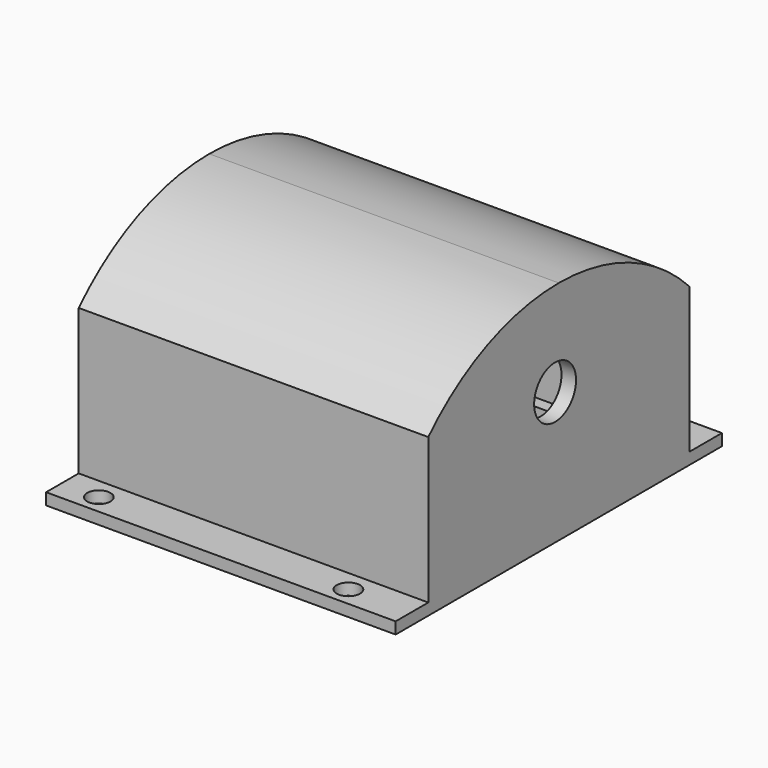
from build123d import *

# Parameters (mm, degrees)
EXTRUDE051_DEPTH                          = 56
SKETCH049_R                               = 2
EXTRUDE049_DEPTH                          = 15
SKETCH048_R                               = 4.5
EXTRUDE048_DEPTH                          = 100
SKETCH046_AS_DRAWN_W                      = 50
SKETCH046_AS_DRAWN_H                      = 54
EXTRUDE046_DEPTH                          = 24
EXTRUDE046_ONTO_SKETCH046_PITCH_ANGLE     = 0.457086
EXTRUDE046_ONTO_SKETCH046_PLACEMENT_ANGLE = 90
EXTRUDE045_DEPTH                          = 60


with BuildPart() as obj1:
    # Sketch050 (on Face1 of Cut026) → Extrude051 (new body)
    with BuildSketch(Plane(origin=(-35.5, 0, 0), x_dir=(0, -1, 0), z_dir=(-1, 0, 0))):
        with BuildLine():
            Line((24.067108, 62.828769), (24.067108, 39.546181))
            Line((24.067108, 39.546181), (78.067085, 39.546181))
            Line((78.067085, 62.712322), (78.067085, 39.546181))
            ThreePointArc((78.067085, 62.712322), (51.091637, 74.150565), (24.067108, 62.828769))
        make_face()
    extrude(amount=EXTRUDE051_DEPTH)


with BuildPart() as obj1_1:
    # Extrude051 placement: moved
    add(obj1.part.moved(Location((57.5, 0, 0))))


with BuildPart() as weapon_cover_screw_holes:
    # Sketch049 (on Face6 of Cut025) → Extrude049 (new body, symmetric)
    with BuildSketch(Plane.XY.offset(39.2)):
        with Locations((-29.074951, -82.714325)):
            Circle(SKETCH049_R)
        with Locations((13.75458, -82.714325)):
            Circle(SKETCH049_R)
        with Locations((-29.074951, -19.516283)):
            Circle(SKETCH049_R)
        with Locations((13.75458, -19.516283)):
            Circle(SKETCH049_R)
    extrude(amount=EXTRUDE049_DEPTH, both=True)


with BuildPart() as axis_hole_lid:
    # Sketch048 (on Face3 of Cut024) → Extrude048 (new body, symmetric)
    with BuildSketch(Plane.YZ.offset(24.5)):
        with Locations((-51.79294, 59.926255)):
            Circle(SKETCH048_R)
    extrude(amount=EXTRUDE048_DEPTH, both=True)


with BuildPart() as obj2:
    # Sketch046 as drawn → Extrude046 (new)
    with BuildSketch(Plane.XY):
        with Locations((-9, -1)):
            Rectangle(SKETCH046_AS_DRAWN_W, SKETCH046_AS_DRAWN_H)
    extrude(amount=EXTRUDE046_DEPTH)


with BuildPart() as obj2_1:
    # Extrude046 onto Sketch046 pitch: moved
    add(obj2.part.rotate(Axis((0, 0, 0), (0, 1, 0)), EXTRUDE046_ONTO_SKETCH046_PITCH_ANGLE))


with BuildPart() as obj2_2:
    # Extrude046 onto Sketch046 placement: moved
    add(obj2_1.part.moved(Location((-5.5, -69.445946, 37.254054))).rotate(Axis((-5.5, -69.445946, 37.254054), (0, 0, 1)), EXTRUDE046_ONTO_SKETCH046_PLACEMENT_ANGLE))


with BuildPart() as obj2_3:
    # Extrude046 placement: moved
    add(obj2_2.part.moved(Location((-0.75, 27.25, -1))))


with BuildPart() as weapon_gear_cover:
    # Sketch045 → Extrude045 (new body)
    with BuildSketch(Plane.YZ):
        with BuildLine():
            Line((-86, 37.2), (-86, 39.2))
            Line((-86, 39.2), (-79, 39.2))
            Line((-79, 39.2), (-79, 64.2))
            ThreePointArc((-51, 76.097301), (-66.211392, 72.999631), (-79, 64.2))
            ThreePointArc((-23, 64.2), (-35.788608, 72.999631), (-51, 76.097301))
            Line((-23, 39.2), (-23, 64.2))
            Line((-16, 39.2), (-23, 39.2))
            Line((-16, 37.2), (-16, 39.2))
            Line((-16, 37.2), (-51, 37.2))
            Line((-86, 37.2), (-51, 37.2))
        make_face()
    extrude(amount=EXTRUDE045_DEPTH)


with BuildPart() as weapon_gear_cover_1:
    # Extrude045 placement: moved
    add(weapon_gear_cover.part.moved(Location((-35.5, 0, 0))))

    # Cut024: cut obj2
    add(obj2_3.part, mode=Mode.SUBTRACT)

    # Cut025: cut Axis Hole Lid
    add(axis_hole_lid.part, mode=Mode.SUBTRACT)

    # Cut026: cut Weapon Cover Screw Holes
    add(weapon_cover_screw_holes.part, mode=Mode.SUBTRACT)

    # Cut028: cut obj1
    add(obj1_1.part, mode=Mode.SUBTRACT)


solid = weapon_gear_cover_1.part
